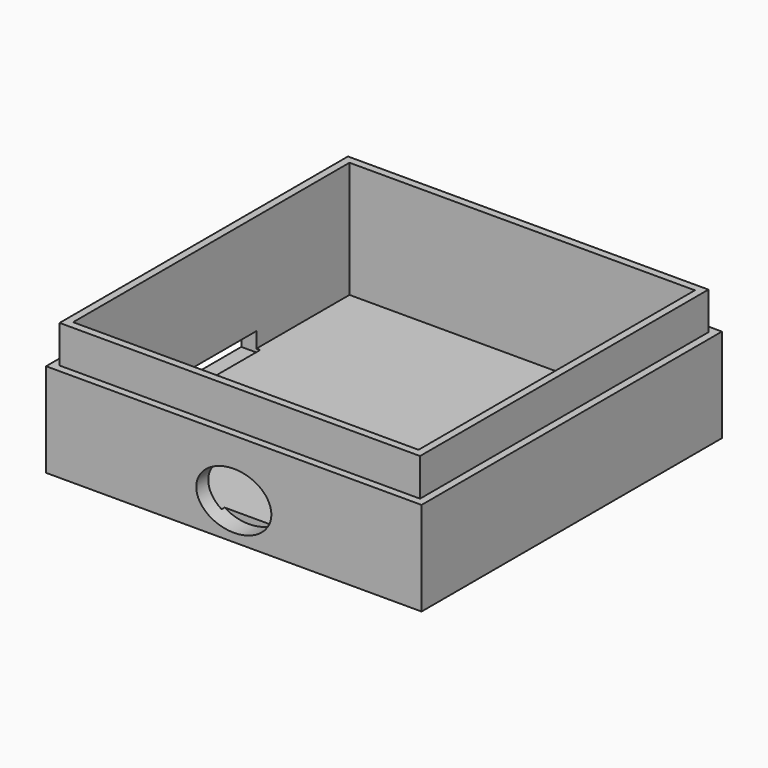
from build123d import *

# Parameters (mm, degrees)
F0_W     = 100
F0_H     = 100
F1_DEPTH = 35
F2_T     = -4
F3_W     = 96
F3_H     = 96
F4_DEPTH = 10
F5_W     = 30
F5_H     = 5
F6_DEPTH = 5
F8_DEPTH = 5


with BuildPart() as f1:
    # F0 (on Top) → F1 (new body)
    with BuildSketch(Plane.XY):
        Rectangle(F0_W, F0_H)
    extrude(amount=F1_DEPTH)

    # F2
    f2_openings = [f1.faces().sort_by_distance(p)[0] for p in [
        (0, 0, 35),
    ]]
    offset(amount=F2_T, openings=f2_openings)

    # F3 (on face) → F4 (cut)
    with BuildSketch(Plane.XY.offset(35)):
        Polygon((-48, 50), (-50, 50), (-50, 48), (-50, -48), (-50, -50), (-48, -50), (48, -50), (50, -50), (50, -48), (50, 48), (50, 50), (48, 50), align=None)
        Rectangle(F3_W, F3_H, mode=Mode.SUBTRACT)
    extrude(amount=-F4_DEPTH, mode=Mode.SUBTRACT)

    # F5 (on face) → F6 (cut)
    with BuildSketch(Plane(origin=(-50, 0, 0), x_dir=(0, -1, 0), z_dir=(-1, 0, 0))):
        with Locations((0, 5.614583)):
            Rectangle(F5_W, F5_H)
    extrude(amount=-F6_DEPTH, mode=Mode.SUBTRACT)

    # F7 (on face) → F8 (cut)
    with BuildSketch(Plane.XZ.offset(50)):
        with BuildLine():
            add(Edge.make_bspline(
                [(-10, 9.723425), (-10, -3.266956), (5, 3.228234), (20, 9.723425), (5, 16.218615), (-10, 22.713806), (-10, 9.723425)],
                knots=[0, 0, 0, 2.094395, 2.094395, 4.18879, 4.18879, 6.283185, 6.283185, 6.283185], degree=2, weights=[1, 0.5, 1, 0.5, 1, 0.5, 1]))
        make_face()
    extrude(amount=-F8_DEPTH, mode=Mode.SUBTRACT)


solid = f1.part
